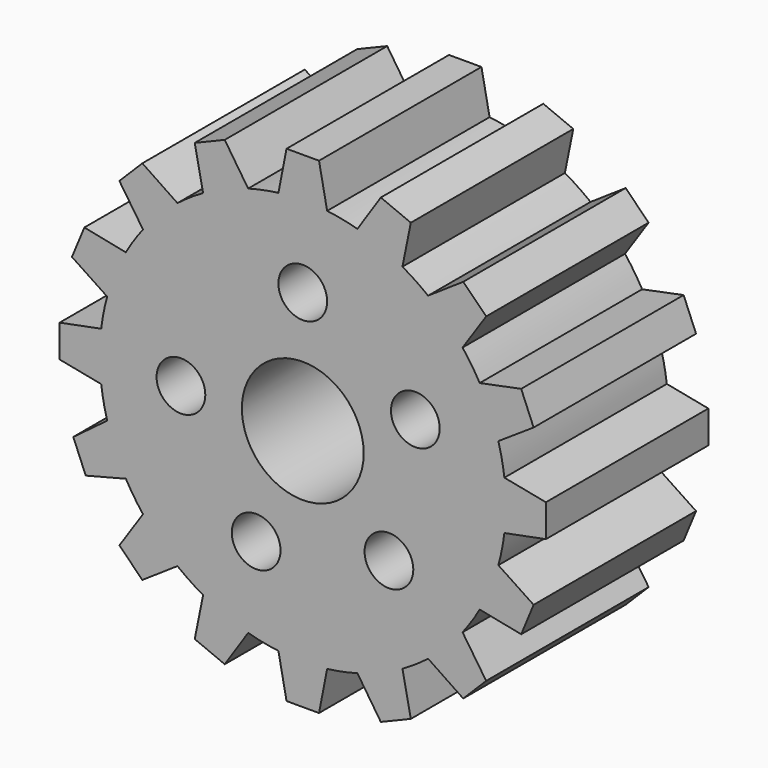
from build123d import *

# Parameters (mm, degrees)
F0_R     = 3
F0_R_2   = 7.5
F1_DEPTH = 25


with BuildPart() as f1:
    # F0 (on Front) → F1 (new body)
    with BuildSketch(Plane.XZ):
        with BuildLine():
            Line((9.607203, 28.420092), (6.726314, 24.078137))
            ThreePointArc((6.726314, 24.078137), (4.877258, 24.519632), (3, 24.819347))
            Line((3, 24.819347), (2, 29.933259))
            Line((2, 29.933259), (-2, 29.933259))
            Line((-2, 29.933259), (-3, 24.819347))
            ThreePointArc((-3, 24.819347), (-4.877258, 24.519632), (-6.726314, 24.078137))
            Line((-6.726314, 24.078137), (-9.607203, 28.420092))
            Line((-9.607203, 28.420092), (-13.302721, 26.889359))
            Line((-13.302721, 26.889359), (-12.269592, 21.782037))
            ThreePointArc((-12.269592, 21.782037), (-13.889256, 20.78674), (-15.428608, 19.671249))
            Line((-15.428608, 19.671249), (-19.751797, 22.580224))
            Line((-19.751797, 22.580224), (-22.580224, 19.751797))
            Line((-22.580224, 19.751797), (-19.671249, 15.428608))
            ThreePointArc((-19.671249, 15.428608), (-20.78674, 13.889256), (-21.782037, 12.269592))
            Line((-21.782037, 12.269592), (-26.889359, 13.302721))
            Line((-26.889359, 13.302721), (-28.420092, 9.607203))
            Line((-28.420092, 9.607203), (-24.078137, 6.726314))
            ThreePointArc((-24.078137, 6.726314), (-24.519632, 4.877258), (-24.819347, 3))
            Line((-24.819347, 3), (-29.933259, 2))
            Line((-29.933259, 2), (-29.933259, -2))
            Line((-29.933259, -2), (-24.819347, -3))
            ThreePointArc((-24.819347, -3), (-24.519632, -4.877258), (-24.078137, -6.726314))
            Line((-24.078137, -6.726314), (-28.253115, -9.844271))
            Line((-28.253115, -9.844271), (-26.722382, -13.539789))
            Line((-26.722382, -13.539789), (-21.782037, -12.269592))
            ThreePointArc((-21.782037, -12.269592), (-20.78674, -13.889256), (-19.671249, -15.428608))
            Line((-19.671249, -15.428608), (-22.580224, -19.751797))
            Line((-22.580224, -19.751797), (-19.751797, -22.580224))
            Line((-19.751797, -22.580224), (-15.428608, -19.671249))
            ThreePointArc((-15.428608, -19.671249), (-13.889256, -20.78674), (-12.269592, -21.782037))
            Line((-12.269592, -21.782037), (-13.302721, -26.889359))
            Line((-13.302721, -26.889359), (-9.607203, -28.420092))
            Line((-9.607203, -28.420092), (-6.726314, -24.078137))
            ThreePointArc((-6.726314, -24.078137), (-4.877258, -24.519632), (-3, -24.819347))
            Line((-3, -24.819347), (-2, -29.933259))
            Line((-2, -29.933259), (2, -29.933259))
            Line((2, -29.933259), (3, -24.819347))
            ThreePointArc((3, -24.819347), (4.877258, -24.519632), (6.726314, -24.078137))
            Line((6.726314, -24.078137), (9.607203, -28.420092))
            Line((9.607203, -28.420092), (13.302721, -26.889359))
            Line((13.302721, -26.889359), (12.269592, -21.782037))
            ThreePointArc((12.269592, -21.782037), (13.889256, -20.78674), (15.428608, -19.671249))
            Line((15.428608, -19.671249), (19.751797, -22.580224))
            Line((19.751797, -22.580224), (22.580224, -19.751797))
            Line((22.580224, -19.751797), (19.671249, -15.428608))
            ThreePointArc((19.671249, -15.428608), (20.78674, -13.889256), (21.782037, -12.269592))
            Line((21.782037, -12.269592), (26.889359, -13.302721))
            Line((26.889359, -13.302721), (28.420092, -9.607203))
            Line((28.420092, -9.607203), (24.078137, -6.726314))
            ThreePointArc((24.078137, -6.726314), (24.519632, -4.877258), (24.819347, -3))
            Line((24.819347, -3), (29.933259, -2))
            Line((29.933259, -2), (29.933259, 2))
            Line((29.933259, 2), (24.819347, 3))
            ThreePointArc((24.819347, 3), (24.519632, 4.877258), (24.078137, 6.726314))
            Line((24.078137, 6.726314), (28.420092, 9.607203))
            Line((28.420092, 9.607203), (26.889359, 13.302721))
            Line((26.889359, 13.302721), (21.782037, 12.269592))
            ThreePointArc((21.782037, 12.269592), (20.78674, 13.889256), (19.671249, 15.428608))
            Line((19.671249, 15.428608), (22.580224, 19.751797))
            Line((22.580224, 19.751797), (19.751797, 22.580224))
            Line((19.751797, 22.580224), (15.428608, 19.671249))
            ThreePointArc((15.428608, 19.671249), (13.889256, 20.78674), (12.269592, 21.782037))
            Line((12.269592, 21.782037), (13.302721, 26.889359))
            Line((13.302721, 26.889359), (9.607203, 28.420092))
        make_face()
        with Locations((-15, 0)):
            Circle(F0_R, mode=Mode.SUBTRACT)
        with Locations((-5.740251, -13.858193)):
            Circle(F0_R, mode=Mode.SUBTRACT)
        Circle(F0_R_2, mode=Mode.SUBTRACT)
        with Locations((10.606602, -10.606602)):
            Circle(F0_R, mode=Mode.SUBTRACT)
        with Locations((0, 15)):
            Circle(F0_R, mode=Mode.SUBTRACT)
        with Locations((13.858193, 5.740251)):
            Circle(F0_R, mode=Mode.SUBTRACT)
    extrude(amount=F1_DEPTH)


solid = f1.part
